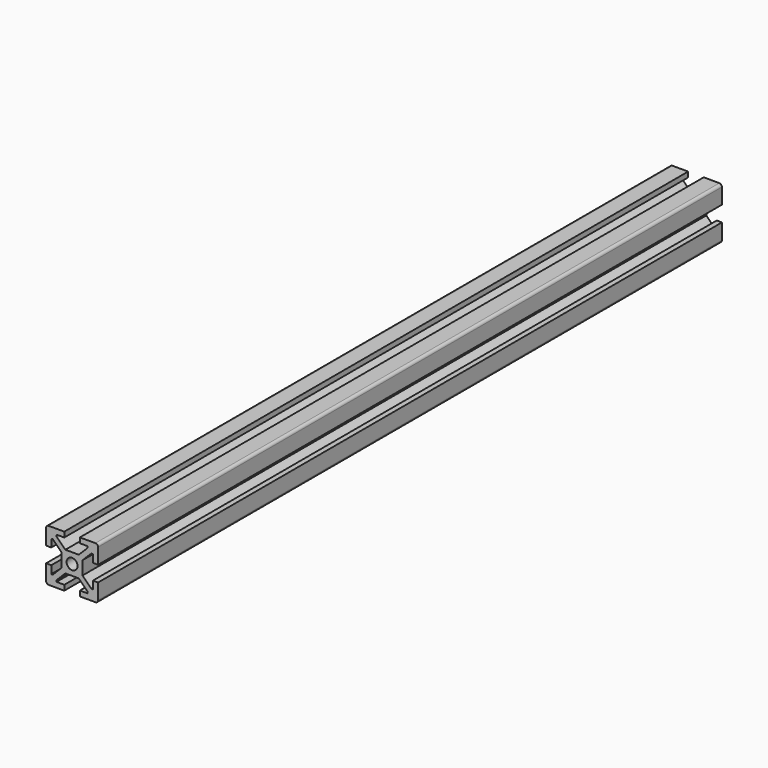
from build123d import *

# Parameters (mm, degrees)
F0_R     = 2.1
F1_DEPTH = 300
F2_R     = 1


with BuildPart() as f1:
    # F0 (on Front) → F1 (new body)
    with BuildSketch(Plane.XZ):
        Polygon((2.585786, 4), (0, 4), (-2.585786, 4), (-6, 7.414214), (-6, 8), (-3, 8), (-3, 10), (-10, 10), (-10, 3), (-8, 3), (-8, 6), (-7.414214, 6), (-4, 2.585786), (-4, 0), (-4, -2.585786), (-7.414214, -6), (-8, -6), (-8, -3), (-10, -3), (-10, -10), (-3, -10), (-3, -8), (-6, -8), (-6, -7.414214), (-2.585786, -4), (0, -4), (2.585786, -4), (6, -7.414214), (6, -8), (3, -8), (3, -10), (10, -10), (10, -3), (8, -3), (8, -6), (7.414214, -6), (4, -2.585786), (4, 0), (4, 2.585786), (7.414214, 6), (8, 6), (8, 3), (10, 3), (10, 10), (3, 10), (3, 8), (6, 8), (6, 7.414214), align=None)
        Circle(F0_R, mode=Mode.SUBTRACT)
    extrude(amount=-F1_DEPTH)

    # F2
    f2_edges = [f1.edges().sort_by_distance(p)[0] for p in [
        (-10, 150, 10),
        (10, 150, 10),
        (10, 150, -10),
        (-10, 150, -10),
    ]]
    fillet(f2_edges, radius=F2_R)


solid = f1.part
